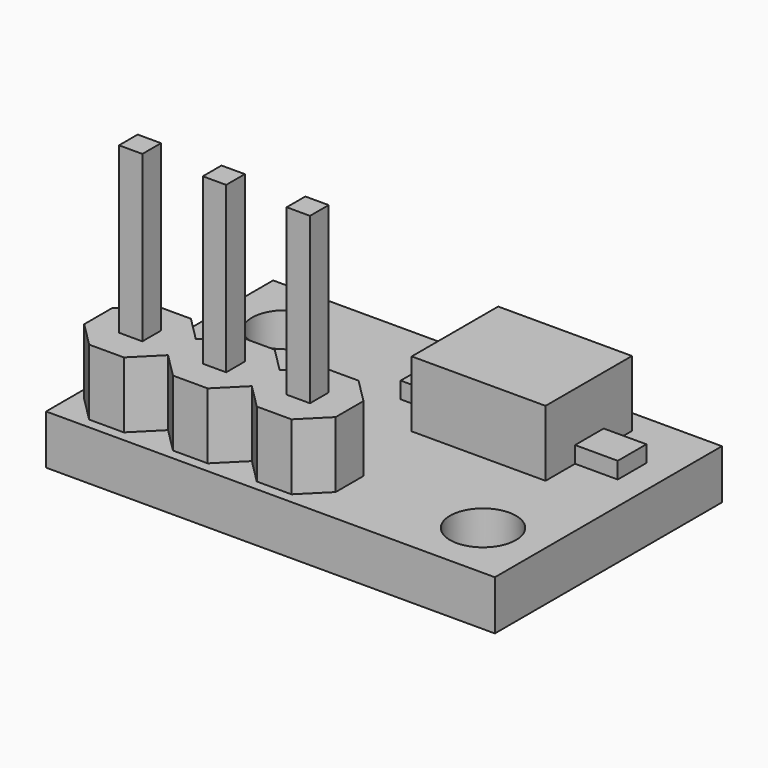
from build123d import *

# Parameters (mm, degrees)
SKETCH_W               = 13.6
SKETCH_H               = 8.6
PAD_DEPTH              = 1.5
SKETCH001_R            = 1
POCKET_DEPTH           = 5
SKETCH002_R            = 0.9
POCKET001_DEPTH        = 5
SKETCH003_W            = 4.055027
SKETCH003_H            = 3.273927
PAD001_DEPTH           = 2
SKETCH004_W            = 1.366968
SKETCH004_H            = 1.084461
PAD002_DEPTH           = 0.5
SKETCH005_W            = 2.05
SKETCH005_H            = 2.53
PAD003_DEPTH           = 1.5
SKETCH006_W            = 0.55793
SKETCH006_H            = 0.749967
PAD004_DEPTH           = 0.5
PAD005_DEPTH           = 2
SKETCH008_W            = 0.707107
SKETCH008_H            = 0.707107
PAD006_DEPTH           = 5
LINEARPATTERN_COUNT    = 3
LINEARPATTERN_PITCH    = 2.54
LINEARPATTERN001_COUNT = 3
LINEARPATTERN001_PITCH = 2.54


with BuildPart() as part:
    # Sketch → Pad (new body)
    with BuildSketch(Plane.XY):
        Rectangle(SKETCH_W, SKETCH_H)
    extrude(amount=PAD_DEPTH)

    # Sketch001 (on Face6 of Pad) → Pocket (cut)
    with BuildSketch(Plane.XY.offset(1.5)):
        with Locations((-5, 2.5)):
            Circle(SKETCH001_R)
        with Locations((5, -2.5)):
            Circle(SKETCH001_R)
    extrude(amount=-POCKET_DEPTH, mode=Mode.SUBTRACT)

    # Sketch002 (on Face4 of Pocket) → Pocket001 (cut)
    with BuildSketch(Plane(origin=(0, 0, 0), x_dir=(1, 0, 0), z_dir=(0, 0, -1))):
        with Locations((2.63, -1.991314)):
            Circle(SKETCH002_R)
    extrude(amount=-POCKET001_DEPTH, mode=Mode.SUBTRACT)

    # Sketch003 (on Face5 of Pocket001) → Pad001 (join)
    with BuildSketch(Plane.XY.offset(1.5)):
        with Locations((2.621891, 1.944408)):
            Rectangle(SKETCH003_W, SKETCH003_H)
    extrude(amount=PAD001_DEPTH)

    # Sketch004 (on Face5 of Pad001) → Pad002 (join)
    with BuildSketch(Plane.XY.offset(1.5)):
        with Locations((0.04648, 1.968005)):
            Rectangle(SKETCH004_W, SKETCH004_H)
        with Locations((5.259186, 1.968005)):
            Rectangle(SKETCH004_W, SKETCH004_H)
    extrude(amount=PAD002_DEPTH)

    # Sketch005 (on Face4 of Pad002) → Pad003 (join)
    with BuildSketch(Plane(origin=(0, 0, 0), x_dir=(1, 0, 0), z_dir=(0, 0, -1))):
        with Locations((0.15814, -2)):
            Rectangle(SKETCH005_W, SKETCH005_H)
    extrude(amount=PAD003_DEPTH)

    # Sketch006 (on Face4 of Pad003) → Pad004 (join)
    with BuildSketch(Plane(origin=(0, 0, 0), x_dir=(1, 0, 0), z_dir=(0, 0, -1))):
        with Locations((0.167423, -0.357102)):
            Rectangle(SKETCH006_W, SKETCH006_H)
        with Locations((0.167423, -3.601865)):
            Rectangle(SKETCH006_W, SKETCH006_H)
    extrude(amount=PAD004_DEPTH)

    # Sketch007 (on Face5 of Pad004) → Pad005 (join)
    with BuildSketch(Plane.XY.offset(1.5)):
        Polygon((-4.692553, -1.448605), (-5.744656, -1.448605), (-6.488605, -2.192553), (-6.488605, -3.244656), (-5.744656, -3.988605), (-4.692553, -3.988605), (-3.948605, -3.244656), (-3.948605, -2.192553), align=None)
    pad005 = extrude(amount=PAD005_DEPTH)

    # Sketch008 (on Face46 of Pad005) → Pad006 (join)
    with BuildSketch(Plane.XY.offset(3.5)):
        with Locations((-5.218604, -2.718604)):
            Rectangle(SKETCH008_W, SKETCH008_H)
    pad006 = extrude(amount=PAD006_DEPTH)

    # LinearPattern: Pad005 ×3
    with Locations(*[(i * LINEARPATTERN_PITCH, 0, 0) for i in range(1, LINEARPATTERN_COUNT)]):
        add(pad005)

    # LinearPattern001: Pad006 ×3
    with Locations(*[(i * LINEARPATTERN001_PITCH, 0, 0) for i in range(1, LINEARPATTERN001_COUNT)]):
        add(pad006)


solid = part.part
